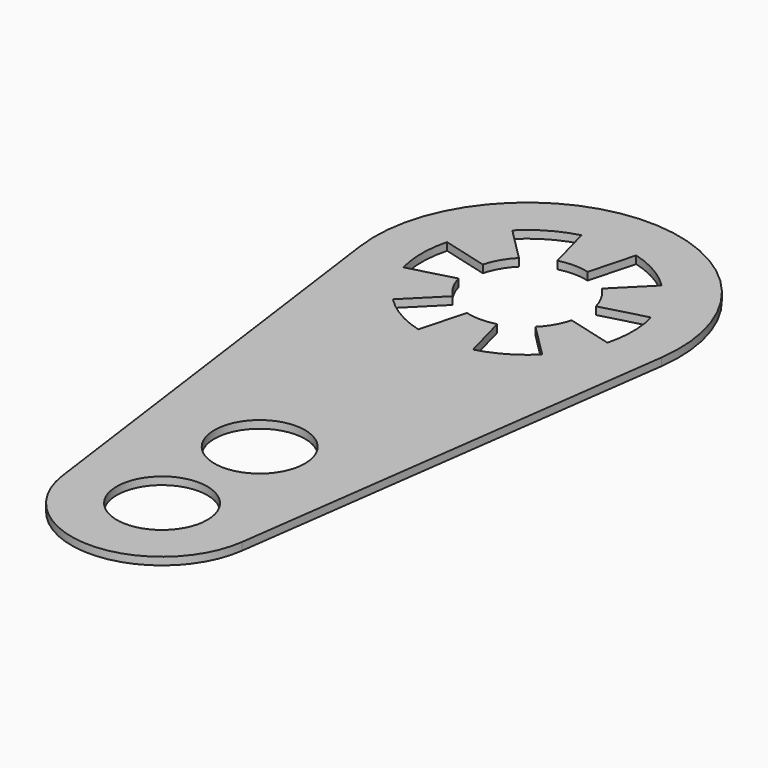
from build123d import *

# Parameters (mm, degrees)
F0_R     = 1.18
F1_DEPTH = 0.2


with BuildPart() as f1:
    # F0 (on Top) → F1 (new body)
    with BuildSketch(Plane.XY):
        with BuildLine():
            Line((2.338535, -12.207578), (3.923982, -0.532885))
            ThreePointArc((3.923982, -0.532885), (0, 3.96), (-3.923982, -0.532885))
            Line((-3.923982, -0.532885), (-2.338535, -12.207578))
            ThreePointArc((-2.338535, -12.207578), (0, -14.25), (2.338535, -12.207578))
        make_face()
        with Locations((0, -11.89)):
            Circle(F0_R, mode=Mode.SUBTRACT)
        with Locations((0, -8.71)):
            Circle(F0_R, mode=Mode.SUBTRACT)
        with BuildLine():
            ThreePointArc((-1.078338, -1.078338), (-1.320689, -0.7625), (-1.473037, -0.394699))
            Line((-1.473037, -0.394699), (-2.656296, -0.711752))
            ThreePointArc((-2.656296, -0.711752), (-2.75, 0), (-2.656296, 0.711752))
            Line((-2.656296, 0.711752), (-1.473037, 0.394699))
            ThreePointArc((-1.473037, 0.394699), (-1.320689, 0.7625), (-1.078338, 1.078338))
            Line((-1.078338, 1.078338), (-1.944544, 1.944544))
            ThreePointArc((-1.944544, 1.944544), (-1.375, 2.38157), (-0.711752, 2.656296))
            Line((-0.711752, 2.656296), (-0.394699, 1.473037))
            ThreePointArc((-0.394699, 1.473037), (0, 1.525), (0.394699, 1.473037))
            Line((0.394699, 1.473037), (0.711752, 2.656296))
            ThreePointArc((0.711752, 2.656296), (1.375, 2.38157), (1.944544, 1.944544))
            Line((1.944544, 1.944544), (1.078338, 1.078338))
            ThreePointArc((1.078338, 1.078338), (1.320689, 0.7625), (1.473037, 0.394699))
            Line((1.473037, 0.394699), (2.656296, 0.711752))
            ThreePointArc((2.656296, 0.711752), (2.75, 0), (2.656296, -0.711752))
            Line((2.656296, -0.711752), (1.473037, -0.394699))
            ThreePointArc((1.473037, -0.394699), (1.320689, -0.7625), (1.078338, -1.078338))
            Line((1.078338, -1.078338), (1.944544, -1.944544))
            ThreePointArc((1.944544, -1.944544), (1.375, -2.38157), (0.711752, -2.656296))
            Line((0.711752, -2.656296), (0.394699, -1.473037))
            ThreePointArc((0.394699, -1.473037), (0, -1.525), (-0.394699, -1.473037))
            Line((-0.394699, -1.473037), (-0.711752, -2.656296))
            ThreePointArc((-0.711752, -2.656296), (-1.375, -2.38157), (-1.944544, -1.944544))
            Line((-1.944544, -1.944544), (-1.078338, -1.078338))
        make_face(mode=Mode.SUBTRACT)
    extrude(amount=F1_DEPTH)


solid = f1.part
